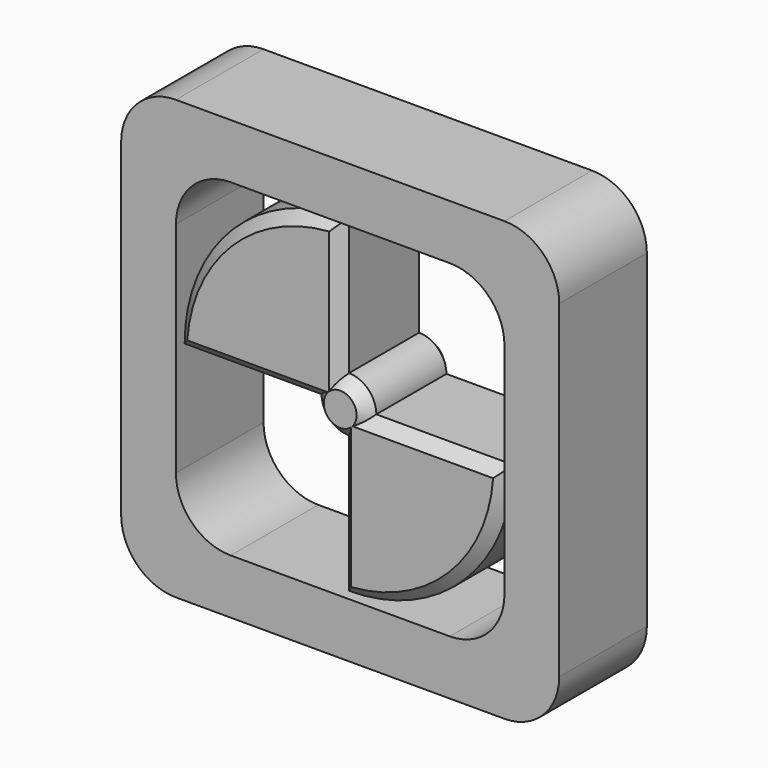
from build123d import *

# Parameters (mm, degrees)
F0_W     = 40
F0_H     = 40
F1_DEPTH = 10
F2_R     = 5
F3_SIZE  = 1
F4_SIZE  = 1


with BuildPart() as f1:
    # F0 (on Front) → F1 (new body)
    with BuildSketch(Plane.XZ):
        Rectangle(F0_W, F0_H)
        Polygon((0, 15), (15, 15), (15, 0), (15, -15), (0, -15), (-15, -15), (-15, 0), (-15, 15), align=None, mode=Mode.SUBTRACT)
    extrude(amount=F1_DEPTH)

    # F2
    f2_edges = [f1.edges().sort_by_distance(p)[0] for p in [
        (-20, -5, 20),
        (20, -5, 20),
        (20, -5, -20),
        (-20, -5, -20),
        (15, -5, -15),
        (15, -5, 15),
        (-15, -5, -15),
        (-15, -5, 15),
    ]]
    fillet(f2_edges, radius=F2_R)


with BuildPart() as f1b:
    # F0 (on Front) → F1, piece 2 (new body)
    with BuildSketch(Plane.XZ):
        with BuildLine():
            Line((0, 2.5), (0, 15))
            ThreePointArc((0, 15), (-10.6066017178, 10.6066017178), (-15, 0))
            Line((-15, 0), (-2.5, 0))
            ThreePointArc((-2.5, 0), (-1.767766953, -1.767766953), (0, -2.5))
            Line((0, -2.5), (0, -15))
            ThreePointArc((0, -15), (10.6066017178, -10.6066017178), (15, 0))
            Line((15, 0), (2.5, 0))
            ThreePointArc((2.5, 0), (1.767766953, 1.767766953), (0, 2.5))
        make_face()
        with BuildLine():
            Line((0, 2.5), (0, 15))
            ThreePointArc((0, 15), (-10.6066017178, 10.6066017178), (-15, 0))
            Line((-15, 0), (-2.5, 0))
            ThreePointArc((-2.5, 0), (-1.767766953, -1.767766953), (0, -2.5))
            Line((0, -2.5), (0, -15))
            ThreePointArc((0, -15), (10.6066017178, -10.6066017178), (15, 0))
            Line((15, 0), (2.5, 0))
            ThreePointArc((2.5, 0), (1.767766953, 1.767766953), (0, 2.5))
        make_face()
    extrude(amount=F1_DEPTH)

    # F3
    f3_edges = [f1b.edges().sort_by_distance(p)[0] for p in [
        (8.75, 0, 0),
        (1.767767, 0, 1.767767),
        (0, 0, 8.75),
        (-10.606602, 0, 10.606602),
        (-8.75, 0, 0),
        (-1.767767, 0, -1.767767),
        (0, 0, -8.75),
        (10.606602, 0, -10.606602),
    ]]
    chamfer(f3_edges, length=F3_SIZE)

    # F4
    f4_edges = [f1b.edges().sort_by_distance(p)[0] for p in [
        (8.75, -10, 0),
        (1.767767, -10, 1.767767),
        (0, -10, 8.75),
        (-10.606602, -10, 10.606602),
        (-8.75, -10, 0),
        (-1.767767, -10, -1.767767),
        (0, -10, -8.75),
        (10.606602, -10, -10.606602),
    ]]
    chamfer(f4_edges, length=F4_SIZE)


solid = Compound([f1.part, f1b.part])
